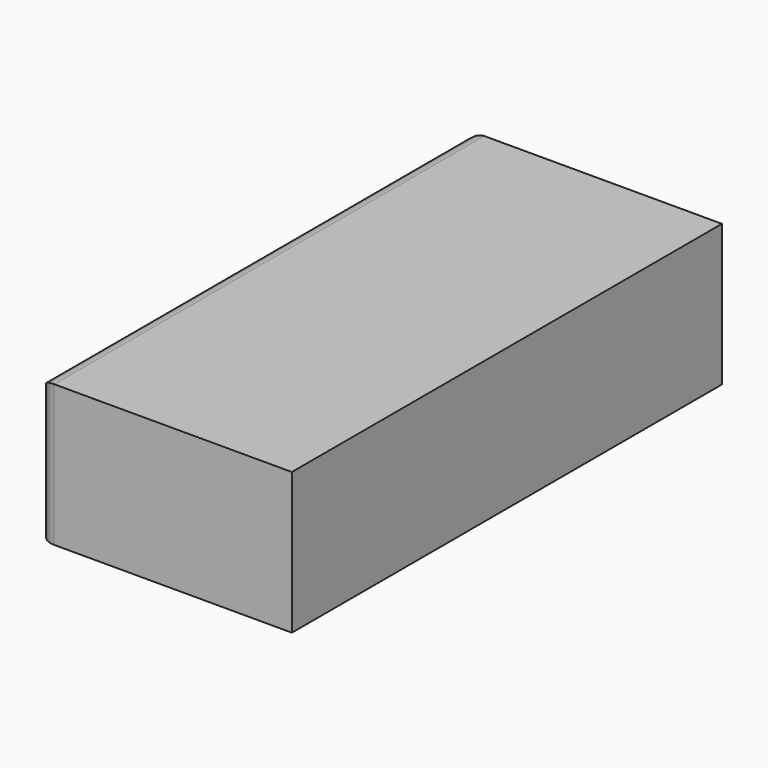
from build123d import *

# Parameters (mm, degrees)
F0_W     = 914.4
F0_H     = 508
F1_DEPTH = 1930.4
F2_R     = 60.96


with BuildPart() as f1:
    # F0 (on Front) → F1 (new body)
    with BuildSketch(Plane.XZ):
        Rectangle(F0_W, F0_H)
    extrude(amount=F1_DEPTH)

    # F2
    f2_edges = [f1.edges().sort_by_distance(p)[0] for p in [
        (-457.2, -965.2, 254),
        (-457.2, -1930.4, 0),
        (-457.2, 0, 0),
    ]]
    fillet(f2_edges, radius=F2_R)


solid = f1.part
